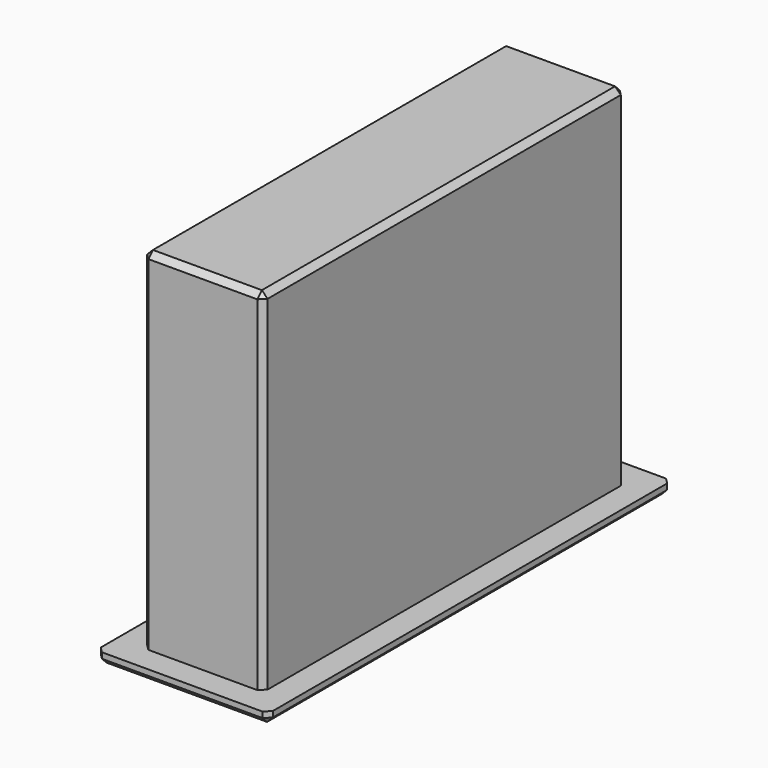
from build123d import *

# Parameters (mm, degrees)
SKETCH052_W     = 15
SKETCH052_H     = 44
PAD029_DEPTH    = 1
SKETCH053_W     = 10.5
SKETCH053_H     = 39.5
PAD030_DEPTH    = 30.5
CHAMFER028_SIZE = 0.5
CHAMFER029_SIZE = 0.5


with BuildPart() as part:
    # Sketch052 → Pad029 (new body)
    with BuildSketch(Plane.XY):
        Rectangle(SKETCH052_W, SKETCH052_H)
    extrude(amount=-PAD029_DEPTH)

    # Sketch053 (on Face5 of Pad029) → Pad030 (join)
    with BuildSketch(Plane.XY):
        Rectangle(SKETCH053_W, SKETCH053_H)
    extrude(amount=PAD030_DEPTH)

    # Chamfer028
    chamfer028_edges = [part.edges().sort_by_distance(p)[0] for p in [
        (-5.25, -19.75, 15.25),
        (5.25, -19.75, 15.25),
        (0, -19.75, 30.5),
        (-5.25, 0, 30.5),
        (5.25, 0, 30.5),
        (5.25, 19.75, 15.25),
        (0, 19.75, 30.5),
        (-5.25, 19.75, 15.25),
    ]]
    chamfer(chamfer028_edges, length=CHAMFER028_SIZE)

    # Chamfer029
    chamfer029_edges = [part.edges().sort_by_distance(p)[0] for p in [
        (0, 22, -1),
        (7.5, 0, -1),
        (0, -22, -1),
        (-7.5, 0, -1),
        (-7.5, -22, -0.5),
        (7.5, -22, -0.5),
        (7.5, 22, -0.5),
        (-7.5, 22, -0.5),
    ]]
    chamfer(chamfer029_edges, length=CHAMFER029_SIZE)


with BuildPart() as part_1:
    # Body010 placement: moved
    add(part.part.moved(Location((-65, 75, -126))))


solid = part_1.part
